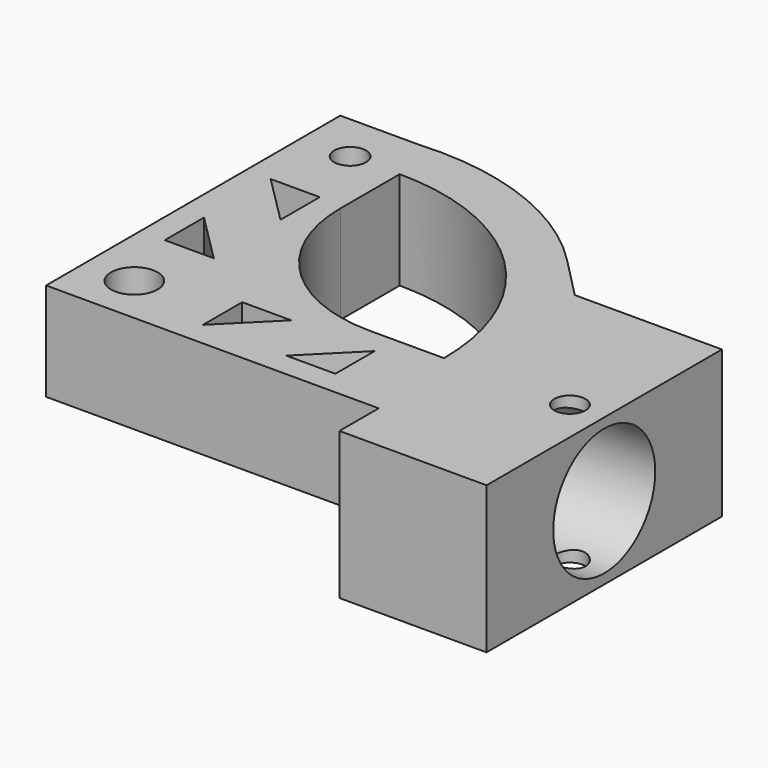
from build123d import *

# Parameters (mm, degrees)
F0_R     = 3.175
F0_R_2   = 4.75
F1_DEPTH = 20
F2_DEPTH = 10
F3_R     = 13
F4_DEPTH = 25


with BuildPart() as f1:
    # F0 (on Top) → F1 (new body)
    with BuildSketch(Plane.XY):
        with BuildLine():
            ThreePointArc((46.7779429864, -1.0896403725), (44.9179247951, -15.2905803426), (39.4633547217, -28.5334663203))
            Line((39.4633547217, -28.5334663203), (39.4633547217, -31.0884585977))
            Line((39.4633547217, -31.0884585977), (69.4633547217, -31.0884585977))
            Line((69.4633547217, -31.0884585977), (69.4633547217, 28.9115414023))
            Line((69.4633547217, 28.9115414023), (39.4633547217, 28.9115414023))
            Line((39.4633547217, 28.9115414023), (39.4633547217, 26.3541855753))
            ThreePointArc((39.4633547217, 26.3541855753), (44.9179247951, 13.1112995976), (46.7779429864, -1.0896403725))
        make_face()
        with Locations((62.4633547217, -1.0884585977)):
            Circle(F0_R, mode=Mode.SUBTRACT)
        with BuildLine():
            Line((39.4633547217, -21.0884585977), (39.4633547217, -28.5334663203))
            ThreePointArc((39.4633547217, -28.5334663203), (44.9179247951, -15.2905803426), (46.7779429864, -1.0896403725))
            ThreePointArc((46.7779429864, -1.0896403725), (44.9179247951, 13.1112995976), (39.4633547217, 26.3541855753))
            Line((39.4633547217, 26.3541855753), (39.4633547217, -1.0884585977))
            Line((39.4633547217, -1.0884585977), (39.4633547217, -21.0884585977))
        make_face()
        with BuildLine():
            ThreePointArc((-21.1307937025, 42.2080468981), (-24.8078552391, 40.9493072035), (-28.36301364, 39.3789391232))
            Line((-28.36301364, 39.3789391232), (-28.36301364, -21.0884585977))
            Line((-28.36301364, -21.0884585977), (-8.36301364, -21.0884585977))
            Line((-8.36301364, -21.0884585977), (32.1061503242, -21.0884585977))
            ThreePointArc((32.1061503242, -21.0884585977), (35.5944813997, -11.3582622017), (36.7779429864, -1.0896403725))
            ThreePointArc((36.7779429864, -1.0896403725), (36.7779429825, -1.0890494851), (36.7779429709, -1.0884585977))
            Line((36.7779429709, -1.0884585977), (21.63698636, -1.0884585977))
            ThreePointArc((21.63698636, -1.0884585977), (0.4237829244, 7.6983379667), (-8.36301364, 28.9115414023))
            Line((-8.36301364, 28.9115414023), (-8.36301364, 44.0513159565))
            ThreePointArc((-8.36301364, 44.0513159565), (-11.7582514634, 43.9234499058), (-15.1342546205, 43.5405761837))
            ThreePointArc((-15.1342546205, 43.5405761837), (-17.6580072755, 40.7389295405), (-21.1307937025, 42.2080468981))
        make_face()
        with Locations((-18.36301364, -11.0884585977)):
            Circle(F0_R_2, mode=Mode.SUBTRACT)
        Polygon((-0.36301364, -6.0884585977), (9.63698636, -6.0884585977), (-0.36301364, -16.0884585977), align=None, mode=Mode.SUBTRACT)
        Polygon((26.63698636, -16.0884585977), (16.63698636, -16.0884585977), (26.63698636, -6.0884585977), align=None, mode=Mode.SUBTRACT)
        Polygon((-23.36301364, 2.9115414023), (-23.36301364, 12.9115414023), (-13.36301364, 2.9115414023), align=None, mode=Mode.SUBTRACT)
        Polygon((-13.36301364, 29.9115414023), (-13.36301364, 19.9115414023), (-23.36301364, 29.9115414023), align=None, mode=Mode.SUBTRACT)
        with BuildLine():
            ThreePointArc((36.7779429864, -1.0896403725), (35.5944813997, -11.3582622017), (32.1061503242, -21.0884585977))
            Line((32.1061503242, -21.0884585977), (39.4633547217, -21.0884585977))
            Line((39.4633547217, -21.0884585977), (39.4633547217, -1.0884585977))
            Line((39.4633547217, -1.0884585977), (36.7779429709, -1.0884585977))
            ThreePointArc((36.7779429709, -1.0884585977), (36.7779429825, -1.0890494851), (36.7779429864, -1.0896403725))
        make_face()
        with BuildLine():
            ThreePointArc((30.9684396656, 37.5569878005), (11.1381634558, 50.4877691044), (-12.2866683032, 53.9115414023))
            Line((-12.2866683032, 53.9115414023), (-8.36301364, 53.9115414023))
            Line((-8.36301364, 53.9115414023), (-8.36301364, 44.0513159565))
            ThreePointArc((-8.36301364, 44.0513159565), (23.5560450585, 30.8302538799), (36.7779429709, -1.0884585977))
            Line((36.7779429709, -1.0884585977), (39.4633547217, -1.0884585977))
            Line((39.4633547217, -1.0884585977), (39.4633547217, 26.3541855753))
            ThreePointArc((39.4633547217, 26.3541855753), (35.5744096354, 32.2274412363), (30.9684396656, 37.5569878005))
        make_face()
        with BuildLine():
            Line((-8.36301364, 53.9115414023), (-12.2866683032, 53.9115414023))
            ThreePointArc((-12.2866683032, 53.9115414023), (-20.4606426016, 52.7078728711), (-28.36301364, 50.296399103))
            Line((-28.36301364, 50.296399103), (-28.36301364, 39.3789391232))
            ThreePointArc((-28.36301364, 39.3789391232), (-24.8078552391, 40.9493072035), (-21.1307937025, 42.2080468981))
            ThreePointArc((-21.1307937025, 42.2080468981), (-19.2482296581, 47.038663498), (-15.11301364, 43.9115414023))
            ThreePointArc((-15.11301364, 43.9115414023), (-15.1183282305, 43.7257549842), (-15.1342546205, 43.5405761837))
            ThreePointArc((-15.1342546205, 43.5405761837), (-11.7582514634, 43.9234499058), (-8.36301364, 44.0513159565))
            Line((-8.36301364, 44.0513159565), (-8.36301364, 53.9115414023))
        make_face()
        with BuildLine():
            Line((-12.2866683032, 53.9115414023), (-28.36301364, 53.9115414023))
            Line((-28.36301364, 53.9115414023), (-28.36301364, 50.296399103))
            ThreePointArc((-28.36301364, 50.296399103), (-20.4606426016, 52.7078728711), (-12.2866683032, 53.9115414023))
        make_face()
        with BuildLine():
            Line((39.4633547217, 28.9115414023), (30.9684396656, 37.5569878005))
            ThreePointArc((30.9684396656, 37.5569878005), (35.5744096354, 32.2274412363), (39.4633547217, 26.3541855753))
            Line((39.4633547217, 26.3541855753), (39.4633547217, 28.9115414023))
        make_face()
    extrude(amount=F1_DEPTH)

    # F0 (on Top) → F2 (join)
    with BuildSketch(Plane.XY):
        with BuildLine():
            ThreePointArc((46.7779429864, -1.0896403725), (44.9179247951, -15.2905803426), (39.4633547217, -28.5334663203))
            Line((39.4633547217, -28.5334663203), (39.4633547217, -31.0884585977))
            Line((39.4633547217, -31.0884585977), (69.4633547217, -31.0884585977))
            Line((69.4633547217, -31.0884585977), (69.4633547217, 28.9115414023))
            Line((69.4633547217, 28.9115414023), (39.4633547217, 28.9115414023))
            Line((39.4633547217, 28.9115414023), (39.4633547217, 26.3541855753))
            ThreePointArc((39.4633547217, 26.3541855753), (44.9179247951, 13.1112995976), (46.7779429864, -1.0896403725))
        make_face()
        with Locations((62.4633547217, -1.0884585977)):
            Circle(F0_R, mode=Mode.SUBTRACT)
        with BuildLine():
            Line((39.4633547217, -21.0884585977), (39.4633547217, -28.5334663203))
            ThreePointArc((39.4633547217, -28.5334663203), (44.9179247951, -15.2905803426), (46.7779429864, -1.0896403725))
            ThreePointArc((46.7779429864, -1.0896403725), (44.9179247951, 13.1112995976), (39.4633547217, 26.3541855753))
            Line((39.4633547217, 26.3541855753), (39.4633547217, -1.0884585977))
            Line((39.4633547217, -1.0884585977), (39.4633547217, -21.0884585977))
        make_face()
    extrude(amount=-F2_DEPTH)

    # F3 (on face) → F4 (cut)
    with BuildSketch(Plane.YZ.offset(69.4633547217)):
        with Locations((-1.0884585977, 5)):
            Circle(F3_R)
    extrude(amount=-F4_DEPTH, mode=Mode.SUBTRACT)


solid = f1.part
